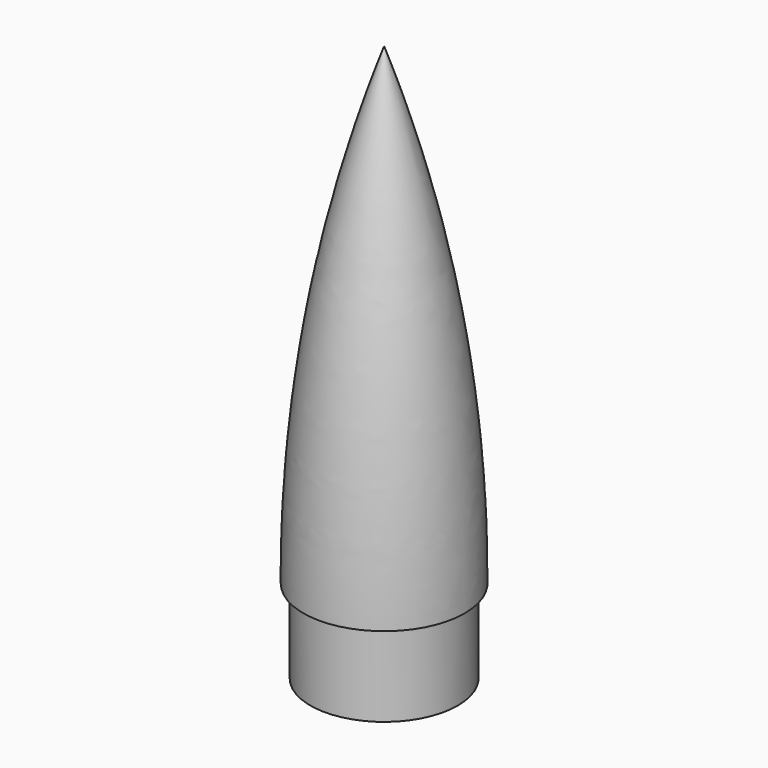
from build123d import *

# Parameters (mm, degrees)
F0_W = 13.25
F0_H = 15


with BuildPart() as f1:
    # F0 (on Front) → F1 (revolve)
    with BuildSketch(Plane.XZ):
        with BuildLine():
            Line((0, 85), (0, 0))
            Line((0, 0), (13.25, 0))
            Line((13.25, 0), (14.5, 0))
            ThreePointArc((14.5, 0), (10.95548, 43.132111), (0, 85))
        make_face()
        with Locations((6.625, -7.5)):
            Rectangle(F0_W, F0_H)
    revolve(axis=Axis((0, 0, 35), (0, 0, -1)))


solid = f1.part
